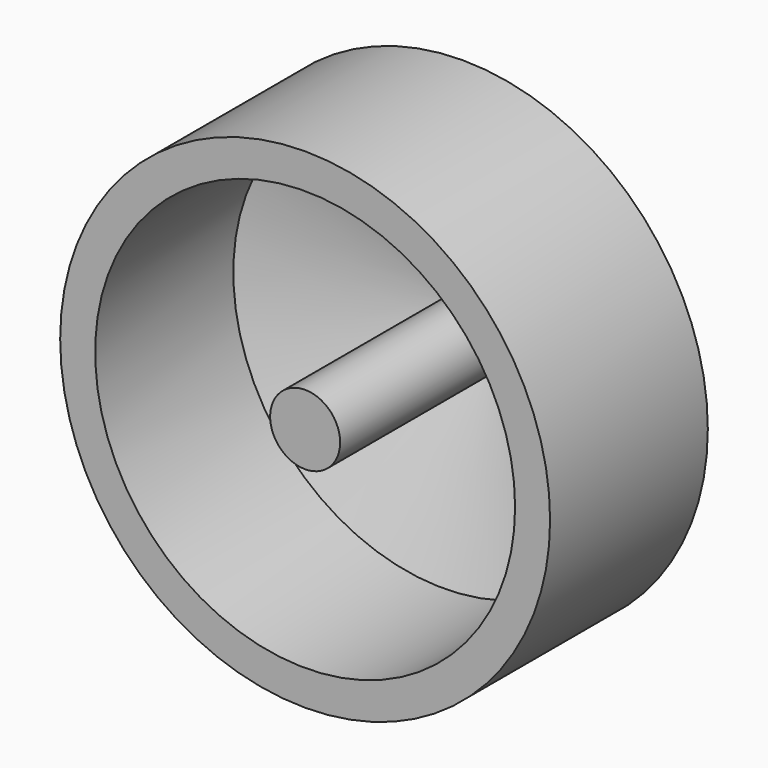
from build123d import *


with BuildPart() as f1:
    # F0 (on Top) → F1 (revolve)
    with BuildSketch(Plane.XY):
        Polygon((2, 0), (0, 0), (0, -32), (4, -32), (4, -4.984652), (24, -12.264056), (24, -32), (28, -32), (28, -9.463226), align=None)
    revolve(axis=Axis((0, -16, 0), (0, -1, 0)))


solid = f1.part
